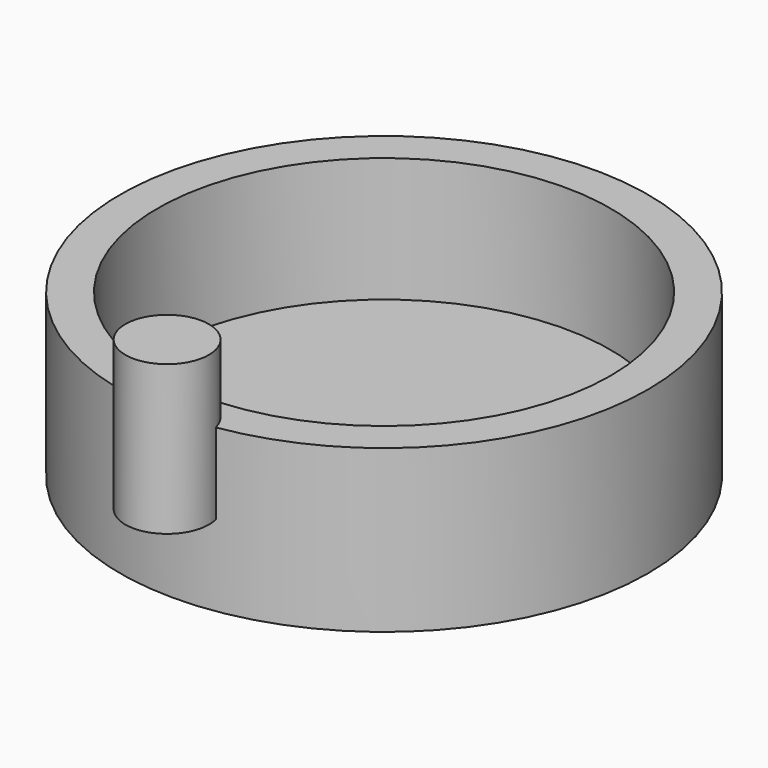
from build123d import *

# Parameters (mm, degrees)
F0_R     = 10.6
F1_DEPTH = 3.25
F2_T     = -1.5
F3_R     = 1.676803
F4_DEPTH = 6


with BuildPart() as f1:
    # F0 (on Top) → F1 (new body, symmetric)
    with BuildSketch(Plane.XY):
        Circle(F0_R)
    extrude(amount=F1_DEPTH, both=True)

    # F2
    f2_openings = [f1.faces().sort_by_distance(p)[0] for p in [
        (0, 0, 3.25),
    ]]
    offset(amount=F2_T, openings=f2_openings)

    # F3 (on Top) → F4 (join)
    with BuildSketch(Plane.XY):
        with Locations((0, -10.890958)):
            Circle(F3_R)
    extrude(amount=F4_DEPTH)


solid = f1.part
